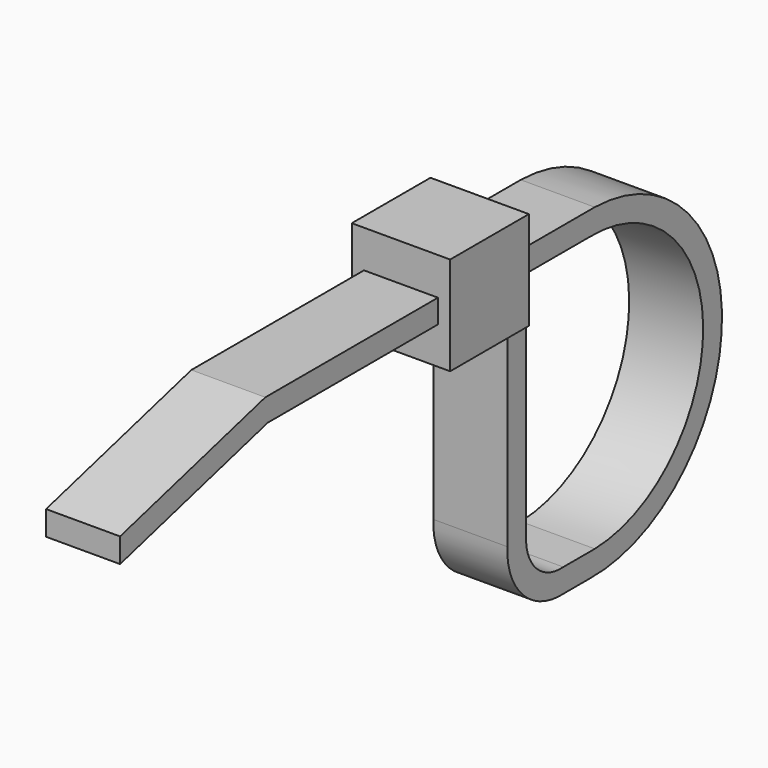
from build123d import *

# Parameters (mm, degrees)
F0_W     = 3.175
F0_H     = 3.175
F1_DEPTH = 1.5875
F4_W     = 2.3876
F4_H     = 0.7874


with BuildPart() as f1:
    # F0 (on Front) → F1 (new body, symmetric)
    with BuildSketch(Plane.XZ):
        Rectangle(F0_W, F0_H)
    extrude(amount=F1_DEPTH, both=True)

    # F5: sweep along a path in F2
    with BuildLine(Plane.YZ) as f5_path:
        Line((1.5875, -1.5875), (1.5875, -7.9375))
        ThreePointArc((1.5875, -7.9375), (2.1082641431, -9.1947358569), (3.3655, -9.7155))
        Line((3.3655, -9.7155), (4.6355, -9.7155))
        ThreePointArc((4.6355, -9.7155), (9.49325, -4.85775), (4.6355, 0))
        Line((4.6355, 0), (-8.5011851043, 0))
        Line((-8.5011851043, 0), (-14.4089486629, -1.5829804746))
    # F4 (on plane+point) → F5 (sweep)
    with BuildSketch(Plane.XZ.offset(14.4089486629)):
        with Locations((0, -1.5875)):
            Rectangle(F4_W, F4_H)
    sweep(path=f5_path.line, transition=Transition.RIGHT)


solid = f1.part
